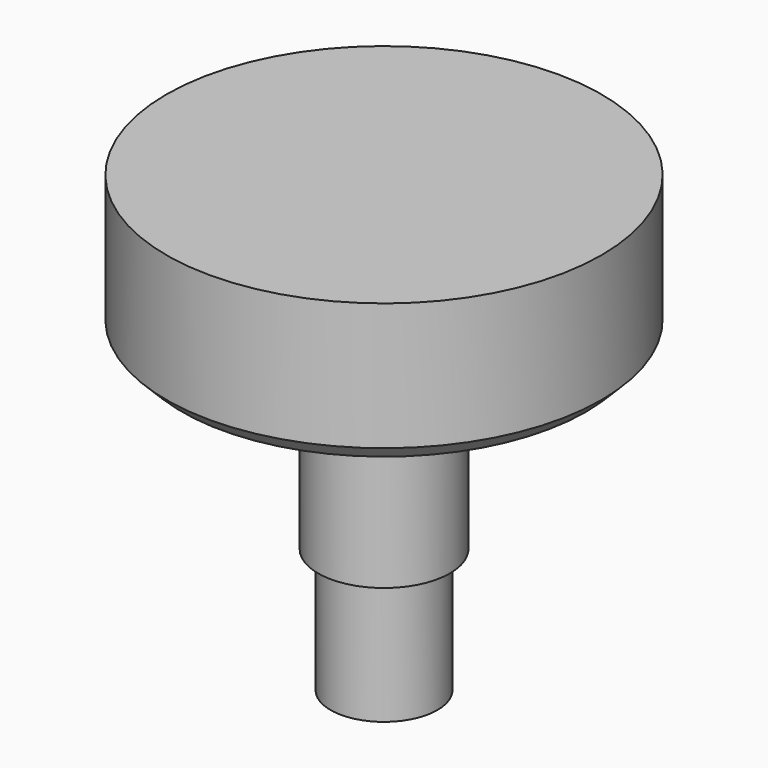
from build123d import *

# Parameters (mm, degrees)
F0_R     = 44.45
F1_DEPTH = 29.21
F2_SIZE  = 3.175
F3_R     = 13.462
F4_DEPTH = 38.1
F5_R     = 10.922
F6_DEPTH = 25.4


with BuildPart() as f1:
    # F0 (on Top) → F1 (new body)
    with BuildSketch(Plane.XY):
        Circle(F0_R)
    extrude(amount=F1_DEPTH)

    # F2
    f2_edges = [f1.edges().sort_by_distance(p)[0] for p in [
        (-44.45, 0, 0),
    ]]
    chamfer(f2_edges, length=F2_SIZE)

    # F3 (on face) → F4 (join)
    with BuildSketch(Plane(origin=(0, 0, 0), x_dir=(1, 0, 0), z_dir=(0, 0, -1))):
        Circle(F3_R)
    extrude(amount=F4_DEPTH)

    # F5 (on face) → F6 (join)
    with BuildSketch(Plane(origin=(0, 0, -38.1), x_dir=(1, 0, 0), z_dir=(0, 0, -1))):
        Circle(F5_R)
    extrude(amount=F6_DEPTH)


solid = f1.part
